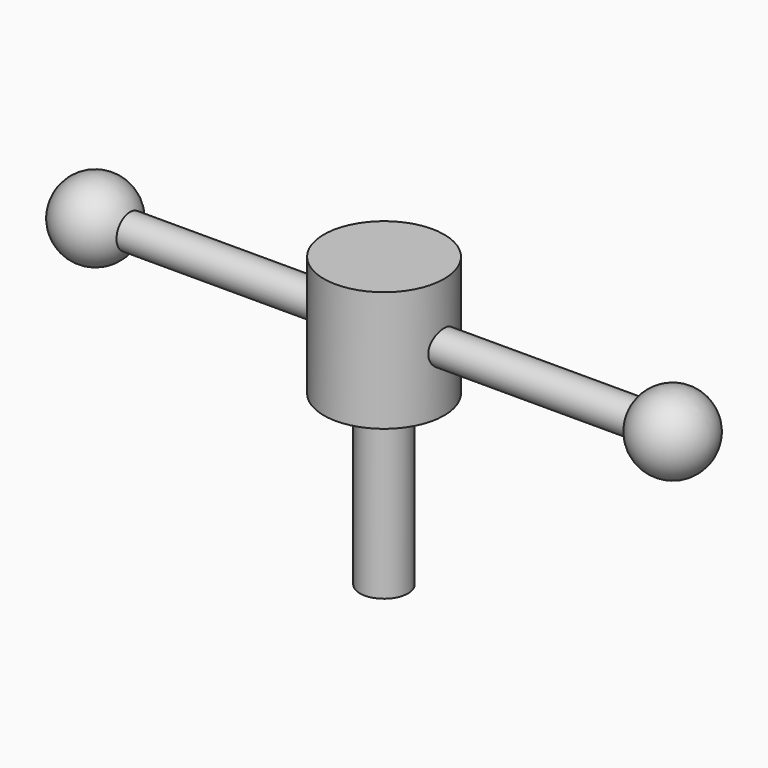
from build123d import *

# Parameters (mm, degrees)
F0_R     = 15.875
F1_DEPTH = 15.875
F4_R     = 6.35
F5_DEPTH = 60.325


with BuildPart() as f1:
    # F0 (on Top) → F1 (new body, symmetric)
    with BuildSketch(Plane.XY):
        Circle(F0_R)
    extrude(amount=F1_DEPTH, both=True)

    # F2 (on Front) → F3 (revolve)
    with BuildSketch(Plane.XZ):
        with BuildLine():
            Line((67.063941, 4.445), (-67.063941, 4.445))
            ThreePointArc((-67.063941, 4.445), (-78.480706, 9.900706), (-86.36, 0))
            Line((-86.36, 0), (86.36, 0))
            ThreePointArc((86.36, 0), (78.480706, 9.900706), (67.063941, 4.445))
        make_face()
    revolve(axis=Axis((4.17114, 0, 0), (1, 0, 0)))

    # F4 (on Top) → F5 (join)
    with BuildSketch(Plane.XY):
        Circle(F4_R)
    extrude(amount=-F5_DEPTH)


solid = f1.part
